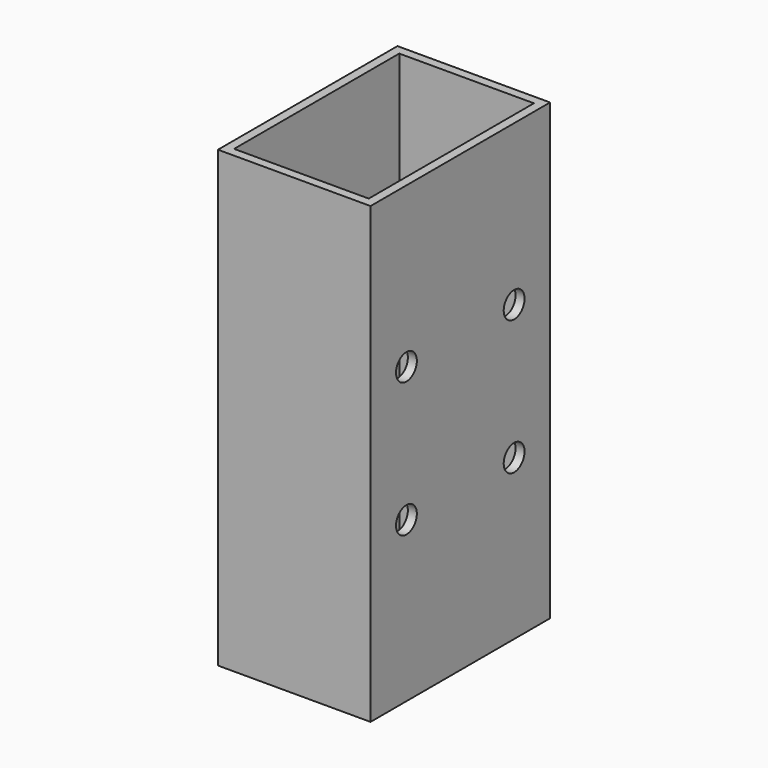
from build123d import *

# Parameters (mm, degrees)
F0_W     = 17
F0_H     = 50.6
F1_DEPTH = 25
F2_T     = -1
F3_R     = 1.45
F4_DEPTH = 25


with BuildPart() as f1:
    # F0 (on Front) → F1 (new body)
    with BuildSketch(Plane.XZ):
        Rectangle(F0_W, F0_H)
    extrude(amount=F1_DEPTH)

    # F2
    f2_openings = [f1.faces().sort_by_distance(p)[0] for p in [
        (0, -12.5, 25.3),
        (0, -12.5, -25.3),
    ]]
    offset(amount=F2_T, openings=f2_openings)

    # F3 (on face) → F4 (cut)
    with BuildSketch(Plane.YZ.offset(8.5)):
        with Locations((-5, 7.5)):
            Circle(F3_R)
        with Locations((-20, 7.5)):
            Circle(F3_R)
        with Locations((-20, -7.5)):
            Circle(F3_R)
        with Locations((-5, -7.5)):
            Circle(F3_R)
    extrude(amount=-F4_DEPTH, mode=Mode.SUBTRACT)


solid = f1.part
